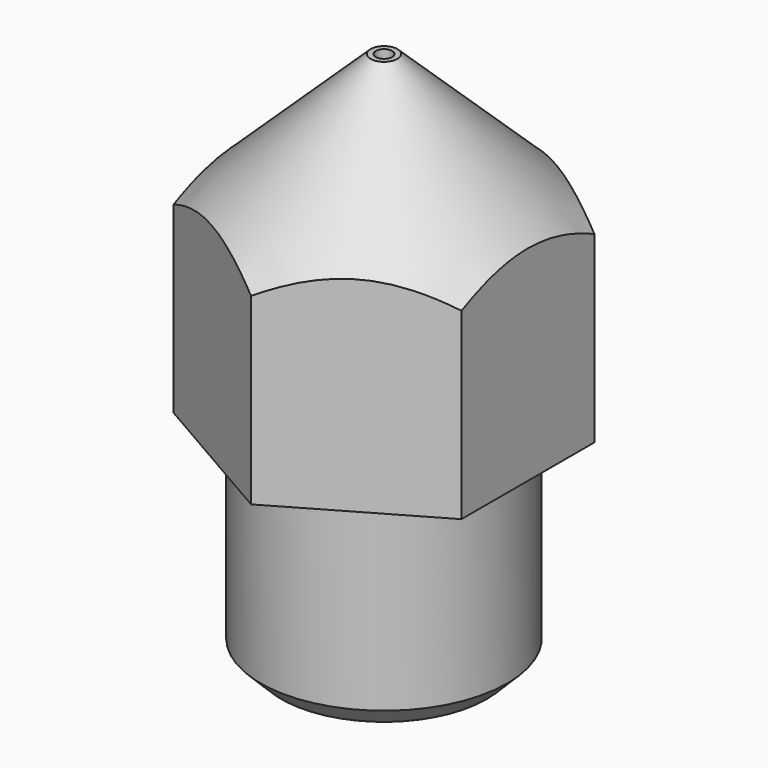
from build123d import *

# Parameters (mm, degrees)
F2_SIZE  = 0.5
F4_DEPTH = 13.001


with BuildPart() as f1:
    # F0 (on Front) → F1 (revolve)
    with BuildSketch(Plane.XZ):
        Polygon((1.19, 5.79), (1.19, -5), (3, -5), (3, 0), (4.04, 0), (4.04, 4.463661), (0.325, 8), (0.2, 8), (0.2, 7.5), align=None)
    revolve(axis=Axis((0, 0, 0.76721), (0, 0, -1)))

    # F2
    f2_edges = [f1.edges().sort_by_distance(p)[0] for p in [
        (-3, 0, -5),
    ]]
    chamfer(f2_edges, length=F2_SIZE)

    # F3 (on face) → F4 (cut, through all)
    with BuildSketch(Plane.XY.offset(8)):
        Polygon((5.229439, 4.649782), (3.5, 4.649782), (3.5, 4.01771), (5.229439, 3.019218), align=None)
        Polygon((3.5, 2.020726), (3.5, 4.01771), (1.729439, 5.039944), (0, 4.041452), align=None)
        Polygon((6.746156, 2.143541), (5.229439, 3.019218), (5.229439, 1.022234), (5.881436, 0.645803), align=None)
        Polygon((5.229439, 1.022234), (3.5, 2.020726), (3.5, -2.020726), (5.229439, -1.022234), align=None)
        Polygon((0, 6.038436), (1.729439, 5.039944), (2.381436, 5.416375), (1.516717, 6.914113), align=None)
        Polygon((3.5, -4.01771), (3.5, -2.020726), (0, -4.041452), (1.729439, -5.039944), align=None)
        Polygon((-3.5, 2.020726), (0, 4.041452), (-1.729439, 5.039944), (-3.5, 4.01771), align=None)
        Polygon((-1.729439, 5.039944), (0, 6.038436), (-1.41211, 6.853717), (-2.276829, 5.35598), align=None)
        Polygon((5.776829, -0.706198), (5.229439, -1.022234), (5.229439, -3.019218), (6.641548, -2.203936), align=None)
        Polygon((5.229439, -3.019218), (3.5, -4.01771), (3.5, -4.770572), (5.229439, -4.770572), align=None)
        Polygon((-1.729439, -5.039944), (0, -4.041452), (-3.5, -2.020726), (-3.5, -4.01771), align=None)
        Polygon((-3.5, -2.020726), (-3.5, 2.020726), (-5.229439, 1.022234), (-5.229439, -1.022234), align=None)
        Polygon((2.276829, -5.35598), (1.729439, -5.039944), (0, -6.038436), (1.41211, -6.853717), align=None)
        Polygon((0, -6.038436), (-1.729439, -5.039944), (-2.381436, -5.416375), (-1.516717, -6.914113), align=None)
        Polygon((-5.229439, 3.019218), (-3.5, 4.01771), (-3.5, 4.770572), (-5.229439, 4.770572), align=None)
        Polygon((-5.776829, 0.706198), (-5.229439, 1.022234), (-5.229439, 3.019218), (-6.641548, 2.203936), align=None)
        Polygon((-3.5, -4.649782), (-3.5, -4.01771), (-5.229439, -3.019218), (-5.229439, -4.649782), align=None)
        Polygon((-5.229439, -3.019218), (-5.229439, -1.022234), (-5.881436, -0.645803), (-6.746156, -2.143541), align=None)
    extrude(amount=-F4_DEPTH, mode=Mode.SUBTRACT)


solid = f1.part
